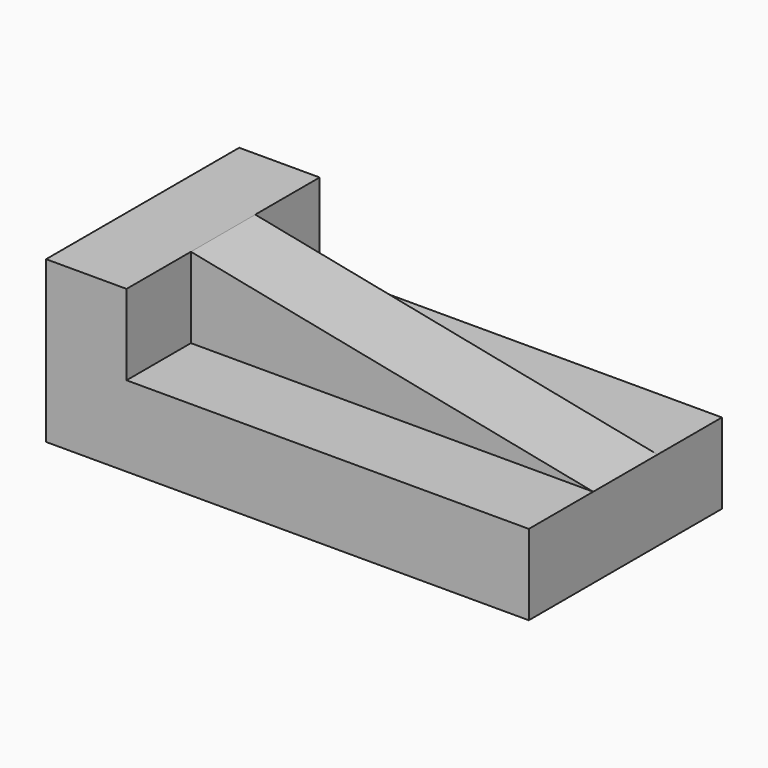
from build123d import *

# Parameters (mm, degrees)
F0_W     = 152.4
F0_H     = 50.8
F1_DEPTH = 76.2
F3_DEPTH = 76.2
F4_DEPTH = 25.4
F6_DEPTH = 25.4


with BuildPart() as f1:
    # F0 (on Front) → F1 (new body)
    with BuildSketch(Plane.XZ):
        with Locations((76.2, 25.4)):
            Rectangle(F0_W, F0_H)
    extrude(amount=-F1_DEPTH)

    # F2 (on face) → F3 (cut)
    with BuildSketch(Plane.XZ):
        Polygon((152.4, 50.8), (25.4, 50.8), (152.4, 25.4), align=None)
    extrude(amount=-F3_DEPTH, mode=Mode.SUBTRACT)

    # F2 (on face) → F4 (cut)
    with BuildSketch(Plane.XZ):
        Polygon((152.4, 25.4), (25.4, 50.8), (25.4, 25.4), align=None)
    extrude(amount=-F4_DEPTH, mode=Mode.SUBTRACT)

    # F5 (on face) → F6 (cut)
    with BuildSketch(Plane(origin=(0, 76.2, 0), x_dir=(-1, 0, 0), z_dir=(0, 1, 0))):
        Polygon((-25.4, 25.4), (-25.4, 50.8), (-152.4, 25.4), align=None)
    extrude(amount=-F6_DEPTH, mode=Mode.SUBTRACT)


solid = f1.part
